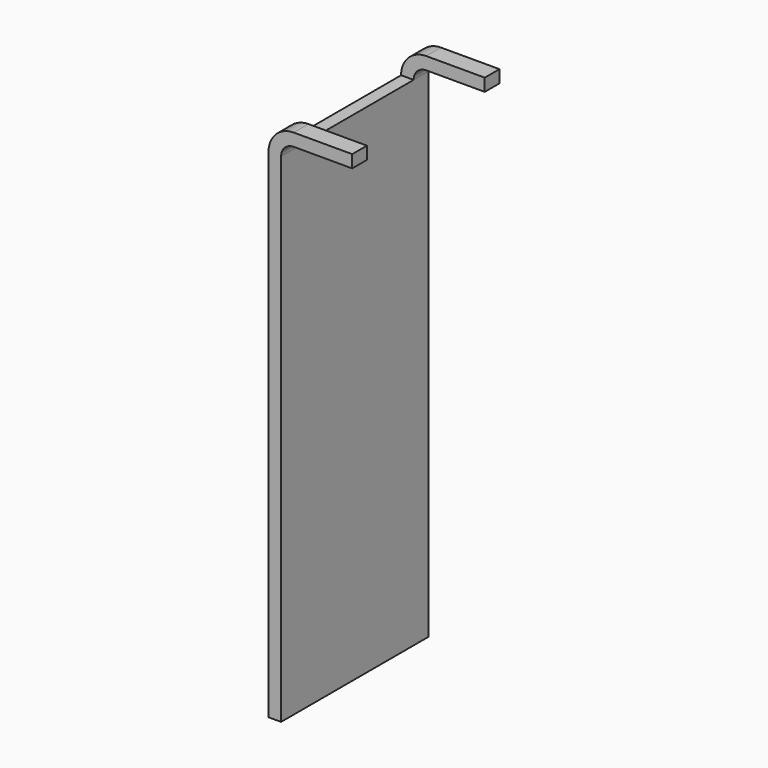
from build123d import *

# Parameters (mm, degrees)
F1_DEPTH = 44
F2_W     = 35.2
F2_H     = 20
F3_DEPTH = 20.001


with BuildPart() as f1:
    # F0 (on Front) → F1 (new body)
    with BuildSketch(Plane.XZ):
        with BuildLine():
            Line((-3, 0), (0, 0))
            Line((0, 0), (0, 119))
            ThreePointArc((0, 119), (0.8786796564, 121.1213203436), (3, 122))
            Line((3, 122), (17, 122))
            Line((17, 122), (17, 125))
            Line((17, 125), (3, 125))
            ThreePointArc((3, 125), (-1.2426406871, 123.2426406871), (-3, 119))
            Line((-3, 119), (-3, 0))
        make_face()
    extrude(amount=F1_DEPTH)

    # F2 (on face) → F3 (cut, through all)
    with BuildSketch(Plane(origin=(-3, 0, 0), x_dir=(0, -1, 0), z_dir=(-1, 0, 0))):
        with Locations((22, 129)):
            Rectangle(F2_W, F2_H)
    extrude(amount=-F3_DEPTH, mode=Mode.SUBTRACT)


solid = f1.part
